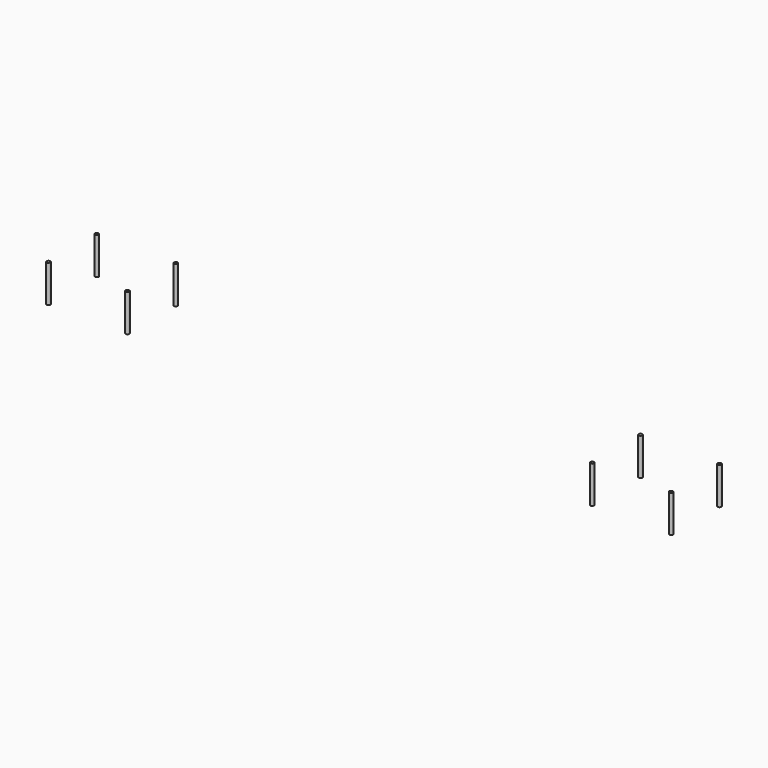
from build123d import *

# Parameters (mm, degrees)
F0_R     = 1.27
F1_DEPTH = 25.4


with BuildPart() as f1:
    # F0 (on Top) → F1 (new body)
    with BuildSketch(Plane.XY):
        with Locations((158.75, 20.6375)):
            Circle(F0_R)
        with Locations((-158.75, -20.6375)):
            Circle(F0_R)
        with Locations((212.725, -20.6375)):
            Circle(F0_R)
        with Locations((212.725, 20.6375)):
            Circle(F0_R)
        with Locations((-158.75, 20.6375)):
            Circle(F0_R)
        with Locations((158.75, -20.6375)):
            Circle(F0_R)
        with Locations((-212.725, -20.6375)):
            Circle(F0_R)
        with Locations((-212.725, 20.6375)):
            Circle(F0_R)
    extrude(amount=F1_DEPTH)


solid = f1.part
